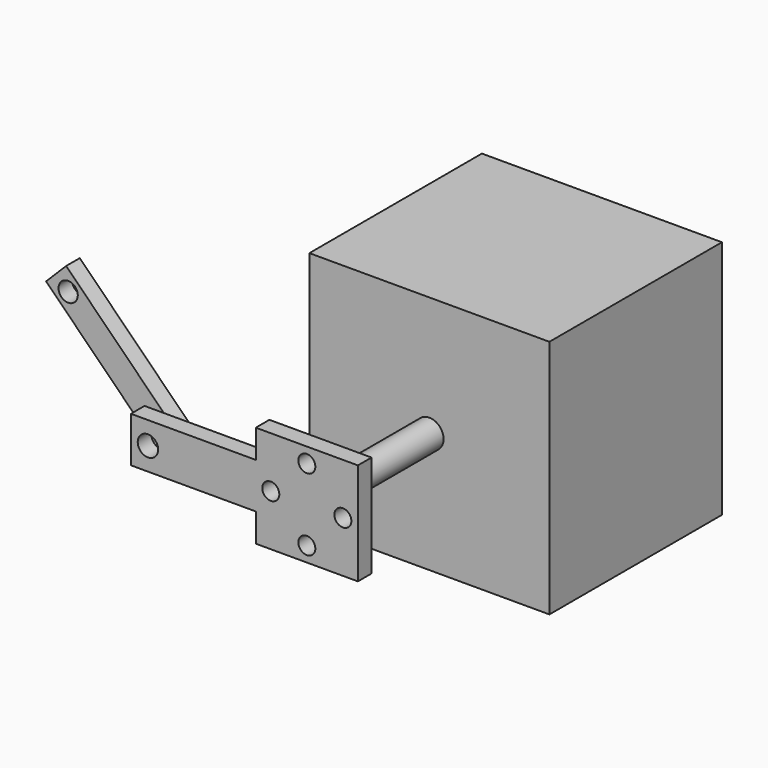
from build123d import *

# Parameters (mm, degrees)
CYLINDER011_R             = 1.8
CYLINDER011_DEPTH         = 10
BOX013_W                  = 8
BOX013_H                  = 22
BOX013_DEPTH              = 3
CYLINDER010_R             = 1.5
CYLINDER010_DEPTH         = 10
CYLINDER009_R             = 1.5
CYLINDER009_DEPTH         = 10
CYLINDER012_R             = 1.5
CYLINDER012_DEPTH         = 10
CYLINDER013_R             = 1.5
CYLINDER013_DEPTH         = 10
BOX012_W                  = 18
BOX012_H                  = 18
BOX012_DEPTH              = 3
FUSION005_PITCH_ANGLE     = 90
FUSION005_PLACEMENT_ANGLE = -90
CYLINDER015_R             = 1.7
CYLINDER015_DEPTH         = 10
CYLINDER014_R             = 1.7
CYLINDER014_DEPTH         = 10
BOX014_W                  = 30
BOX014_H                  = 5
BOX014_DEPTH              = 3
CUT015_ROLL_ANGLE         = 90
CUT015_PITCH_ANGLE        = 45
CUT015_PLACEMENT_ANGLE    = 1.4e-05
CYLINDER008_R             = 2.5
CYLINDER008_DEPTH         = 24
BOX011_W                  = 42.3
BOX011_H                  = 42.3
BOX011_DEPTH              = 38
FUSION004_PLACEMENT_ANGLE = 90


with BuildPart() as cylinder011:
    # Cylinder011 → Cylinder011 (new body)
    with BuildSketch(Plane(origin=(5, 2, 0), x_dir=(1, 0, 0), z_dir=(0, 0, 1))):
        Circle(CYLINDER011_R)
    extrude(amount=CYLINDER011_DEPTH)


with BuildPart() as cut013:
    # Box013 → Box013 (new body)
    with BuildSketch(Plane(origin=(1, -1, 0), x_dir=(1, 0, 0), z_dir=(0, 0, 1))):
        with Locations((4, 11)):
            Rectangle(BOX013_W, BOX013_H)
    extrude(amount=BOX013_DEPTH)

    # Cut013: cut Cylinder011
    add(cylinder011.part, mode=Mode.SUBTRACT)


with BuildPart() as cylinder010:
    # Cylinder010 → Cylinder010 (new body)
    with BuildSketch(Plane(origin=(5, 23.65, 0), x_dir=(1, 0, 0), z_dir=(0, 0, 1))):
        Circle(CYLINDER010_R)
    extrude(amount=CYLINDER010_DEPTH)


with BuildPart() as cylinder009:
    # Cylinder009 → Cylinder009 (new body)
    with BuildSketch(Plane(origin=(-1.35, 30, 0), x_dir=(1, 0, 0), z_dir=(0, 0, 1))):
        Circle(CYLINDER009_R)
    extrude(amount=CYLINDER009_DEPTH)


with BuildPart() as cylinder012:
    # Cylinder012 → Cylinder012 (new body)
    with BuildSketch(Plane(origin=(11.35, 30, 0), x_dir=(1, 0, 0), z_dir=(0, 0, 1))):
        Circle(CYLINDER012_R)
    extrude(amount=CYLINDER012_DEPTH)


with BuildPart() as cylinder013:
    # Cylinder013 → Cylinder013 (new body)
    with BuildSketch(Plane(origin=(5, 36.35, 0), x_dir=(1, 0, 0), z_dir=(0, 0, 1))):
        Circle(CYLINDER013_R)
    extrude(amount=CYLINDER013_DEPTH)


with BuildPart() as obj1:
    # Box012 → Box012 (new body)
    with BuildSketch(Plane(origin=(-4, 21, 0), x_dir=(1, 0, 0), z_dir=(0, 0, 1))):
        with Locations((9, 9)):
            Rectangle(BOX012_W, BOX012_H)
    extrude(amount=BOX012_DEPTH)

    # Cut010: cut Cylinder013
    add(cylinder013.part, mode=Mode.SUBTRACT)

    # Cut012: cut Cylinder012
    add(cylinder012.part, mode=Mode.SUBTRACT)

    # Cut011: cut Cylinder009
    add(cylinder009.part, mode=Mode.SUBTRACT)

    # Cut014: cut Cylinder010
    add(cylinder010.part, mode=Mode.SUBTRACT)

    # Fusion005: union Cut013
    add(cut013.part)


with BuildPart() as obj1_1:
    # Fusion005 pitch: moved
    add(obj1.part.rotate(Axis((0, 0, 0), (0, 1, 0)), FUSION005_PITCH_ANGLE))


with BuildPart() as obj1_2:
    # Fusion005 placement: moved
    add(obj1_1.part.moved(Location((60.15, 35, -21.85))).rotate(Axis((60.15, 35, -21.85), (0, 0, 1)), FUSION005_PLACEMENT_ANGLE))


with BuildPart() as cylinder015:
    # Cylinder015 → Cylinder015 (new body)
    with BuildSketch(Plane(origin=(27, 2.5, 0), x_dir=(1, 0, 0), z_dir=(0, 0, 1))):
        Circle(CYLINDER015_R)
    extrude(amount=CYLINDER015_DEPTH)


with BuildPart() as cylinder014:
    # Cylinder014 → Cylinder014 (new body)
    with BuildSketch(Plane(origin=(3, 2.5, 0), x_dir=(1, 0, 0), z_dir=(0, 0, 1))):
        Circle(CYLINDER014_R)
    extrude(amount=CYLINDER014_DEPTH)


with BuildPart() as obj2:
    # Box014 → Box014 (new body)
    with BuildSketch(Plane.XY):
        with Locations((15, 2.5)):
            Rectangle(BOX014_W, BOX014_H)
    extrude(amount=BOX014_DEPTH)

    # Cut016: cut Cylinder014
    add(cylinder014.part, mode=Mode.SUBTRACT)

    # Cut015: cut Cylinder015
    add(cylinder015.part, mode=Mode.SUBTRACT)


with BuildPart() as obj2_1:
    # Cut015 roll: moved
    add(obj2.part.rotate(Axis((0, 0, 0), (1, 0, 0)), CUT015_ROLL_ANGLE))


with BuildPart() as obj2_2:
    # Cut015 pitch: moved
    add(obj2_1.part.rotate(Axis((0, 0, 0), (0, 1, 0)), CUT015_PITCH_ANGLE))


with BuildPart() as obj2_3:
    # Cut015 placement: moved
    add(obj2_2.part.moved(Location((41.4, 38.5, -9.5))).rotate(Axis((41.4, 38.5, -9.5), (0, 0, 1)), CUT015_PLACEMENT_ANGLE))


with BuildPart() as rotor001:
    # Cylinder008 → Cylinder008 (new body)
    with BuildSketch(Plane(origin=(21.15, 21.15, 38), x_dir=(1, 0, 0), z_dir=(0, 0, 1))):
        Circle(CYLINDER008_R)
    extrude(amount=CYLINDER008_DEPTH)


with BuildPart() as obj3:
    # Box011 → Box011 (new body)
    with BuildSketch(Plane.XY):
        with Locations((21.15, 21.15)):
            Rectangle(BOX011_W, BOX011_H)
    extrude(amount=BOX011_DEPTH)

    # Fusion004: union Rotor001
    add(rotor001.part)


with BuildPart() as obj3_1:
    # Fusion004 placement: moved
    add(obj3.part.moved(Location((69, 97, -48))).rotate(Axis((69, 97, -48), (1, 0, 0)), FUSION004_PLACEMENT_ANGLE))

    # Fusion006: union obj1, obj2
    add(obj1_2.part)
    add(obj2_3.part)


with BuildPart() as obj3_2:
    # Fusion006 placement: moved
    add(obj3_1.part.moved(Location((-31.3, -1.5, -20.14))))


solid = obj3_2.part
